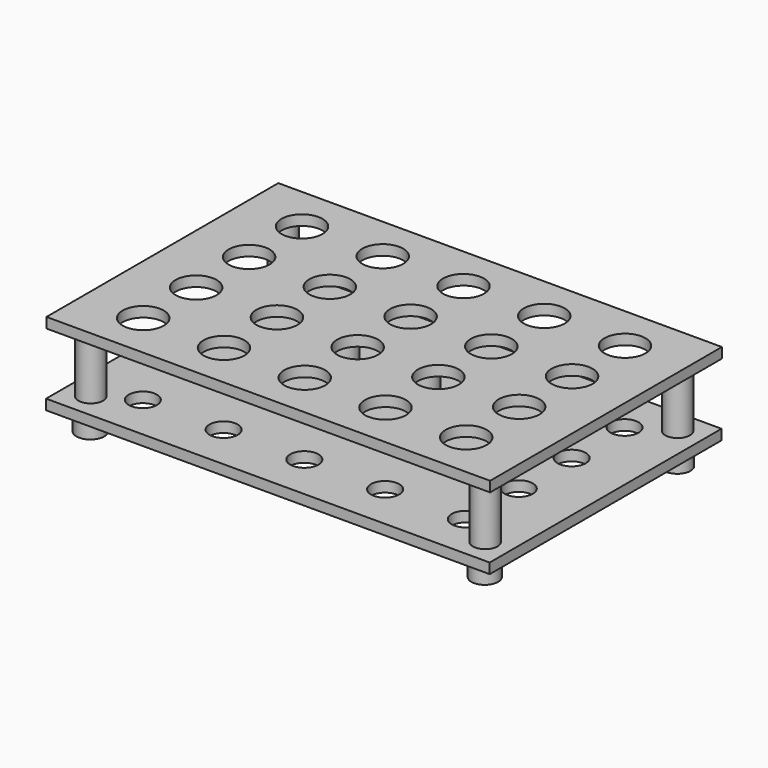
from build123d import *

# Parameters (mm, degrees)
F0_W      = 137.3124
F0_H      = 89.6874
F1_DEPTH  = 3.175
F3_R      = 3.81
F4_DEPTH  = 19.05
F5_W      = 137.3124
F5_H      = 89.6874
F6_DEPTH  = 3.175
F2_R      = 6.35
F8_DEPTH  = 6.35
F7_R      = 4.365625
F9_DEPTH  = 25.4
F10_R     = 4.306197
F10_R_2   = 4.1275
F11_DEPTH = 6.35


with BuildPart() as f1:
    # F0 (on Top) → F1 (new body)
    with BuildSketch(Plane.XY):
        with Locations((3.890783, 13.083767)):
            Rectangle(F0_W, F0_H)
    extrude(amount=-F1_DEPTH)

    # F3 (on face) → F4 (join)
    with BuildSketch(Plane(origin=(0, 0, -3.175), x_dir=(1, 0, 0), z_dir=(0, 0, -1))):
        with Locations((-57.145417, 24.139933)):
            Circle(F3_R)
        with Locations((64.926983, 24.139933)):
            Circle(F3_R)
        with Locations((-57.145417, -50.307467)):
            Circle(F3_R)
        with Locations((64.926983, -50.307467)):
            Circle(F3_R)
        with Locations((-8.606017, -13.083767)):
            Circle(F3_R)
        with Locations((16.387583, -13.083767)):
            Circle(F3_R)
    extrude(amount=F4_DEPTH)

    # F5 (on face) → F6 (join)
    with BuildSketch(Plane(origin=(0, 0, -22.225), x_dir=(1, 0, 0), z_dir=(0, 0, -1))):
        with Locations((3.875781, -12.945777)):
            Rectangle(F5_W, F5_H)
    extrude(amount=F6_DEPTH)

    # F2 (on face) → F8 (cut)
    with BuildSketch(Plane.XY):
        with Locations((-46.121817, 43.799987)):
            Circle(F2_R)
        with Locations((-21.128217, 43.799987)):
            Circle(F2_R)
        with Locations((3.865383, 43.799987)):
            Circle(F2_R)
        with Locations((28.858983, 43.799987)):
            Circle(F2_R)
        with Locations((53.852583, 43.799987)):
            Circle(F2_R)
        with Locations((-46.121817, -17.632453)):
            Circle(F2_R)
        with Locations((-21.128217, -17.632453)):
            Circle(F2_R)
        with Locations((3.865383, -17.632453)):
            Circle(F2_R)
        with Locations((28.858983, -17.632453)):
            Circle(F2_R)
        with Locations((53.852583, -17.632453)):
            Circle(F2_R)
        with Locations((-46.121817, 23.322507)):
            Circle(F2_R)
        with Locations((-21.128217, 23.322507)):
            Circle(F2_R)
        with Locations((3.865383, 23.322507)):
            Circle(F2_R)
        with Locations((28.858983, 23.322507)):
            Circle(F2_R)
        with Locations((53.852583, 23.322507)):
            Circle(F2_R)
        with Locations((-46.121817, 2.845027)):
            Circle(F2_R)
        with Locations((-21.128217, 2.845027)):
            Circle(F2_R)
        with Locations((3.865383, 2.845027)):
            Circle(F2_R)
        with Locations((28.858983, 2.845027)):
            Circle(F2_R)
        with Locations((53.852583, 2.845027)):
            Circle(F2_R)
    extrude(amount=-F8_DEPTH, mode=Mode.SUBTRACT)

    # F7 (on face) → F9 (cut)
    with BuildSketch(Plane(origin=(0, 0, -25.4), x_dir=(1, 0, 0), z_dir=(0, 0, -1))):
        with Locations((-46.136819, 17.770443)):
            Circle(F7_R)
        with Locations((-21.143219, 17.770443)):
            Circle(F7_R)
        with Locations((3.850381, 17.770443)):
            Circle(F7_R)
        with Locations((28.843981, 17.770443)):
            Circle(F7_R)
        with Locations((53.837581, 17.770443)):
            Circle(F7_R)
        with Locations((-46.136819, -2.707037)):
            Circle(F7_R)
        with Locations((-21.143219, -2.707037)):
            Circle(F7_R)
        with Locations((3.850381, -2.707037)):
            Circle(F7_R)
        with Locations((28.843981, -2.707037)):
            Circle(F7_R)
        with Locations((53.837581, -2.707037)):
            Circle(F7_R)
        with Locations((-46.136819, -23.184517)):
            Circle(F7_R)
        with Locations((-21.143219, -23.184517)):
            Circle(F7_R)
        with Locations((3.850381, -23.184517)):
            Circle(F7_R)
        with Locations((28.843981, -23.184517)):
            Circle(F7_R)
        with Locations((53.837581, -23.184517)):
            Circle(F7_R)
        with Locations((-46.136819, -43.661997)):
            Circle(F7_R)
        with Locations((-21.143219, -43.661997)):
            Circle(F7_R)
        with Locations((3.850381, -43.661997)):
            Circle(F7_R)
        with Locations((28.843981, -43.661997)):
            Circle(F7_R)
        with Locations((53.837581, -43.661997)):
            Circle(F7_R)
    extrude(amount=-F9_DEPTH, mode=Mode.SUBTRACT)

    # F10 (on face) → F11 (join)
    with BuildSketch(Plane(origin=(0, 0, -25.4), x_dir=(1, 0, 0), z_dir=(0, 0, -1))):
        with Locations((-57.160419, 24.277923)):
            Circle(F10_R)
        with Locations((64.911981, 24.277923)):
            Circle(F10_R_2)
        with Locations((64.911981, -50.169477)):
            Circle(F10_R_2)
        with Locations((-57.160419, -50.169477)):
            Circle(F10_R_2)
    extrude(amount=F11_DEPTH)


solid = f1.part
